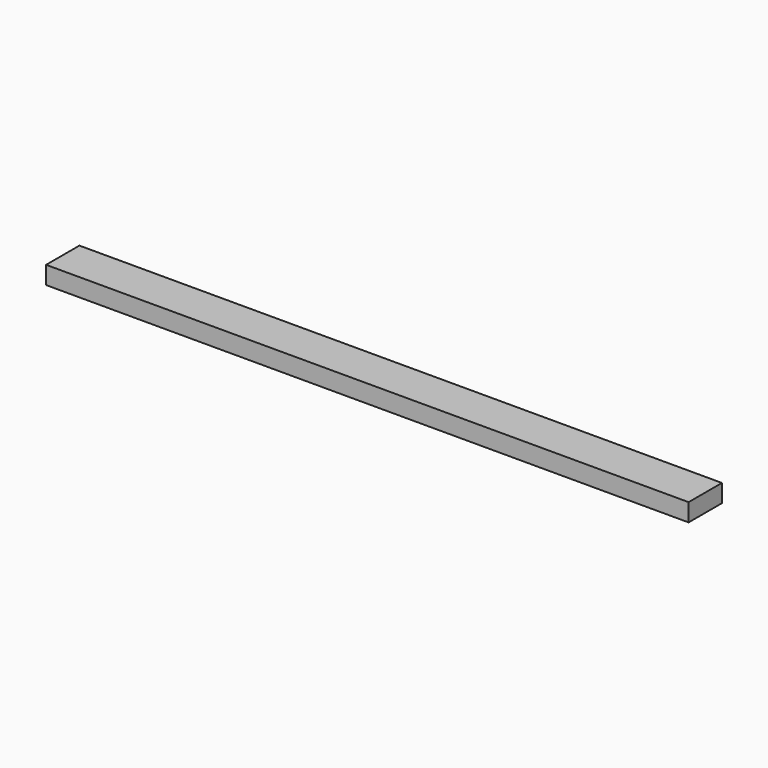
from build123d import *

# Parameters (mm, degrees)
F0_W     = 88.9
F0_H     = 38.1
F1_DEPTH = 1371.6


with BuildPart() as f1:
    # F0 (on Right) → F1 (new body)
    with BuildSketch(Plane.YZ):
        Rectangle(F0_W, F0_H)
        Rectangle(F0_W, F0_H)
    extrude(amount=F1_DEPTH)


solid = f1.part
